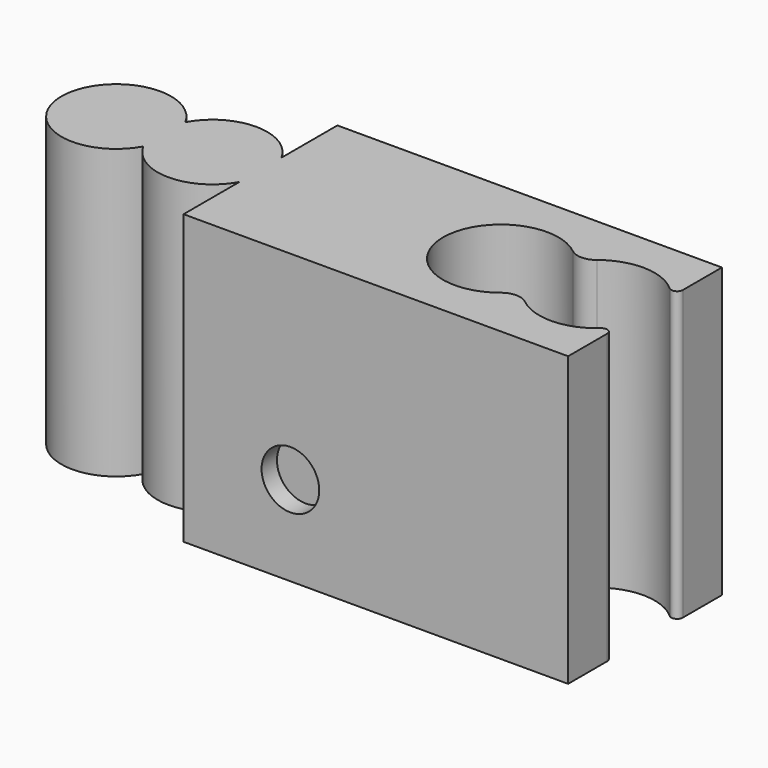
from build123d import *

# Parameters (mm, degrees)
F1_DEPTH = 15
F2_R     = 1.5
F3_DEPTH = 1


with BuildPart() as f1:
    # F0 (on Top) → F1 (new body)
    with BuildSketch(Plane.XY):
        with BuildLine():
            Line((-10, -5), (10, -5))
            Line((10, -5), (10, -2.459675))
            ThreePointArc((10, -2.459675), (9.822474, -2.185813), (9.5, -2.236068))
            ThreePointArc((9.5, -2.236068), (7.581884, -2.998882), (5.625, -2.341874))
            ThreePointArc((5.625, -2.341874), (5, -2.122499), (4.375, -2.341874))
            ThreePointArc((4.375, -2.341874), (-0.5, 0), (4.375, 2.341874))
            ThreePointArc((4.375, 2.341874), (5, 2.122499), (5.625, 2.341874))
            ThreePointArc((5.625, 2.341874), (7.581884, 2.998882), (9.5, 2.236068))
            ThreePointArc((9.5, 2.236068), (9.822474, 2.185813), (10, 2.459675))
            Line((10, 2.459675), (10, 5))
            Line((10, 5), (-10, 5))
            Line((-10, 5), (-10, 1.368393))
            ThreePointArc((-10, 1.368393), (-12.5, 2.85), (-15, 1.368393))
            ThreePointArc((-15, 1.368393), (-20.35, 0), (-15, -1.368393))
            ThreePointArc((-15, -1.368393), (-12.5, -2.85), (-10, -1.368393))
            Line((-10, -1.368393), (-10, -5))
        make_face()
    extrude(amount=F1_DEPTH)

    # F2 (on face) → F3 (cut)
    with BuildSketch(Plane.XZ.offset(5)):
        with Locations((-4.443438, 4.652022)):
            Circle(F2_R)
    extrude(amount=-F3_DEPTH, mode=Mode.SUBTRACT)


solid = f1.part
